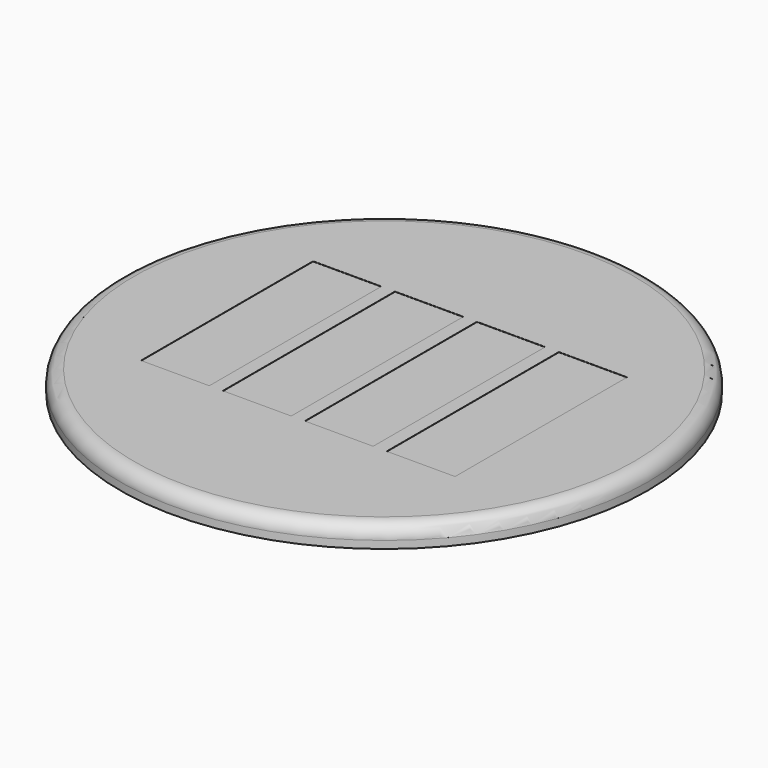
from build123d import *

# Parameters (mm, degrees)
F0_R     = 29.464
F1_DEPTH = 2.3622
F2_R     = 1.524
F3_W     = 7.62
F3_H     = 24.003
F4_DEPTH = 0.0254
F5_R     = 1.524
F6_DEPTH = 0.508


with BuildPart() as f1:
    # F0 (on Top) → F1 (new body)
    with BuildSketch(Plane.XY):
        Circle(F0_R)
    extrude(amount=F1_DEPTH)

    # F2
    f2_edges = [f1.edges().sort_by_distance(p)[0] for p in [
        (-29.464, 0, 2.3622),
    ]]
    fillet(f2_edges, radius=F2_R)

    # F3 (on face) → F4 (cut)
    with BuildSketch(Plane.XY.offset(2.3622)):
        with Locations((-13.716, 0)):
            Rectangle(F3_W, F3_H)
        with Locations((-4.572, 0)):
            Rectangle(F3_W, F3_H)
        with Locations((4.572, 0)):
            Rectangle(F3_W, F3_H)
        with Locations((13.716, 0)):
            Rectangle(F3_W, F3_H)
    extrude(amount=-F4_DEPTH, mode=Mode.SUBTRACT)

    # F5 (on face) → F6 (join)
    with BuildSketch(Plane(origin=(0, 0, 0), x_dir=(1, 0, 0), z_dir=(0, 0, -1))):
        with Locations((-20.193, -12.7)):
            Circle(F5_R)
        with Locations((20.193, -12.7)):
            Circle(F5_R)
    extrude(amount=F6_DEPTH)


solid = f1.part
